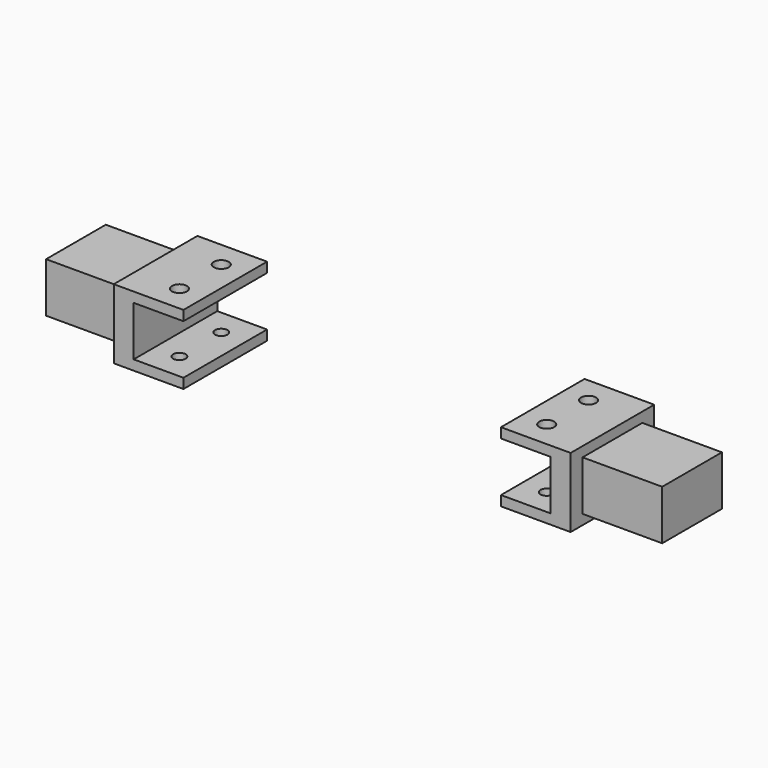
from build123d import *

# Parameters (mm, degrees)
F1_DEPTH       = 15
F3_DEPTH       = 3
F5_DEPTH       = 3
F7_D           = 2.5
F7_CBORE_D     = 3
F7_CBORE_DEPTH = 10


with BuildPart() as f1:
    # F0 (on Front) → F1 (new body)
    with BuildSketch(Plane.XZ):
        Polygon((-45.899762, 0), (-31.902481, 0), (-31.899762, 2), (-41.899762, 2), (-41.899762, 12), (-31.899762, 12), (-31.899762, 14), (-45.899762, 14), (-45.899762, 12), (-61.899762, 12), (-61.899762, 2), (-45.899762, 2), align=None)
    extrude(amount=F1_DEPTH)

    # F2 (on face) → F3 (join)
    with BuildSketch(Plane.XZ.offset(15)):
        Polygon((-45.899762, 14), (-45.899762, 12), (-45.899762, 2), (-45.899762, 0), (-31.902481, 0), (-31.899762, 2), (-41.899762, 2), (-41.899762, 12), (-31.899762, 12), (-31.899762, 14), align=None)
    extrude(amount=F3_DEPTH)

    # F4 (on face) → F5 (join)
    with BuildSketch(Plane(origin=(0, 0, 0), x_dir=(-1, 0, 0), z_dir=(0, 1, 0))):
        Polygon((45.899762, 2), (45.899762, 12), (45.899762, 14), (31.899762, 14), (31.899762, 12), (41.899762, 12), (41.899762, 2), (31.899762, 2), (31.902481, 0), (45.899762, 0), align=None)
    extrude(amount=F5_DEPTH)

    # F7 (through all)
    with Locations(Plane.XY.offset(14)):
        with Locations((-36.899762, -2.25), (-36.899762, -12.75)):
            CounterBoreHole(F7_D / 2, F7_CBORE_D / 2, F7_CBORE_DEPTH)


with BuildPart() as f8_1:
    # F8: instance of F1
    add(f1.part.mirror(Plane.YZ))


solid = Compound([f1.part, f8_1.part])
